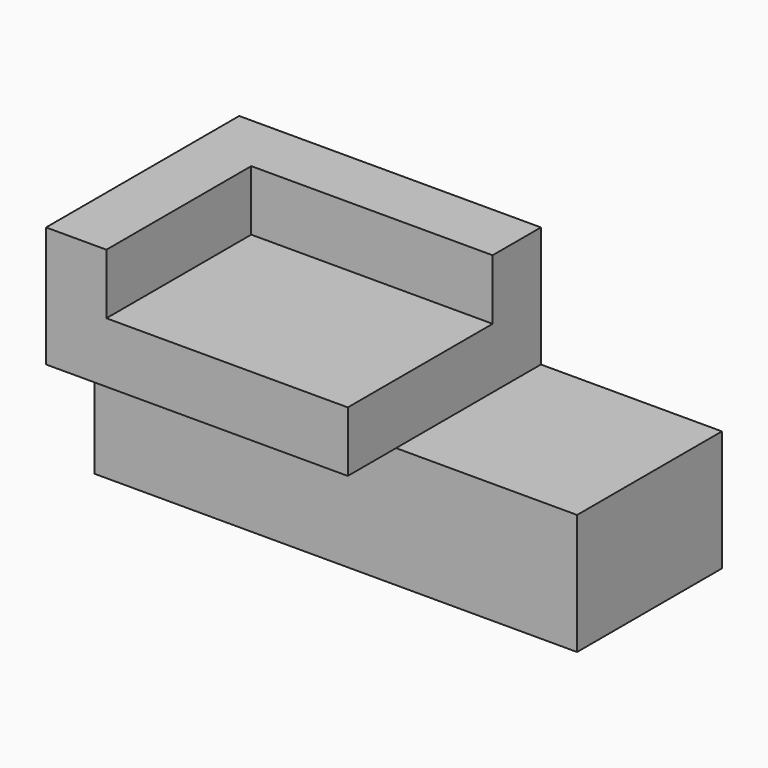
from build123d import *

# Parameters (mm, degrees)
F0_W     = 203.2
F0_H     = 76.2
F1_DEPTH = 50.8
F2_W     = 127
F2_H     = 25.4
F2_H_2   = 76.2
F3_DEPTH = 25.4
F5_DEPTH = 25.4


with BuildPart() as f1:
    # F0 (on Top) → F1 (new body)
    with BuildSketch(Plane.XY):
        with Locations((101.6, -38.1)):
            Rectangle(F0_W, F0_H)
    extrude(amount=F1_DEPTH)

    # F2 (on face) → F3 (join)
    with BuildSketch(Plane.XY.offset(50.8)):
        with Locations((63.5, -88.9)):
            Rectangle(F2_W, F2_H)
        with Locations((63.5, -38.1)):
            Rectangle(F2_W, F2_H_2)
    extrude(amount=F3_DEPTH)

    # F4 (on face) → F5 (join)
    with BuildSketch(Plane.XY.offset(76.2)):
        Polygon((0, 0), (0, -101.6), (25.4, -101.6), (25.4, -25.4), (127, -25.4), (127, 0), align=None)
    extrude(amount=F5_DEPTH)


solid = f1.part
